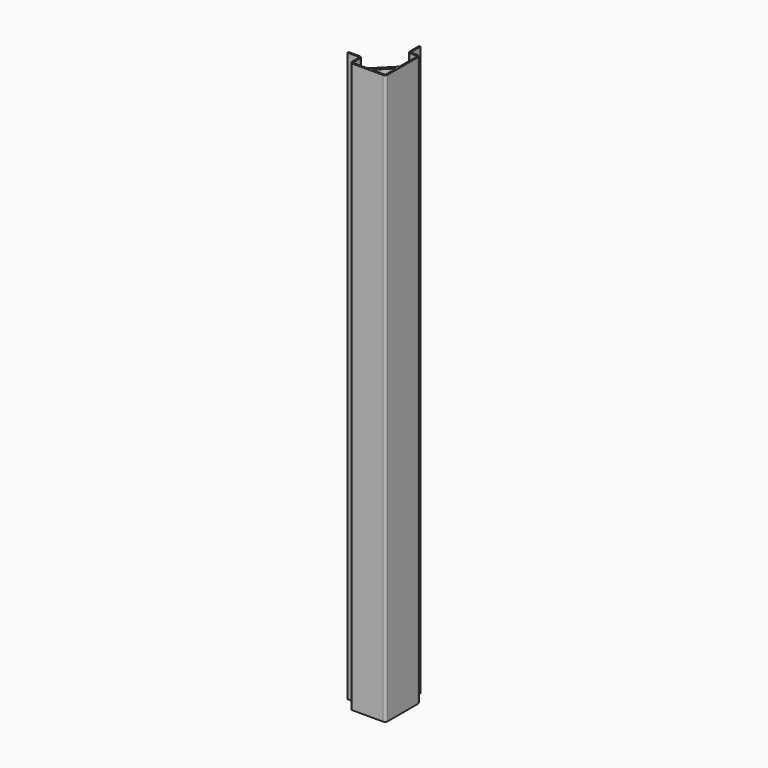
from build123d import *

# Parameters (mm, degrees)
F1_DEPTH = 2337


with BuildPart() as f1:
    # F0 (on Top) → F1 (new body)
    with BuildSketch(Plane.XY):
        Polygon((-6, -84.202423), (-6, -67.231861), (-78.485281, -139.717142), (-61.514719, -139.717142), align=None)
        with BuildLine():
            Line((-40, 83.282858), (-46, 83.282858))
            Line((-46, 83.282858), (-46, 36.282858))
            ThreePointArc((-46, 36.282858), (-43.071068, 29.21179), (-36, 26.282858))
            Line((-36, 26.282858), (-11, 26.282858))
            ThreePointArc((-11, 26.282858), (-7.464466, 24.818392), (-6, 21.282858))
            Line((-6, 21.282858), (-6, -67.231861))
            Line((-6, -67.231861), (-6, -84.202423))
            Line((-6, -84.202423), (-6, -134.717142))
            ThreePointArc((-6, -134.717142), (-7.464466, -138.252676), (-11, -139.717142))
            Line((-11, -139.717142), (-61.514719, -139.717142))
            Line((-61.514719, -139.717142), (-78.485281, -139.717142))
            Line((-78.485281, -139.717142), (-135, -139.717142))
            ThreePointArc((-135, -139.717142), (-138.535534, -138.252676), (-140, -134.717142))
            Line((-140, -134.717142), (-140, -100.717142))
            ThreePointArc((-140, -100.717142), (-143.221825, -92.938967), (-151, -89.717142))
            Line((-151, -89.717142), (-196, -89.717142))
            Line((-196, -89.717142), (-196, -95.717142))
            Line((-196, -95.717142), (-151, -95.717142))
            ThreePointArc((-151, -95.717142), (-147.464466, -97.181608), (-146, -100.717142))
            Line((-146, -100.717142), (-146, -134.717142))
            ThreePointArc((-146, -134.717142), (-142.778175, -142.495316), (-135, -145.717142))
            Line((-135, -145.717142), (-11, -145.717142))
            ThreePointArc((-11, -145.717142), (-3.221825, -142.495316), (0, -134.717142))
            Line((0, -134.717142), (0, 21.282858))
            ThreePointArc((0, 21.282858), (-3.221825, 29.061033), (-11, 32.282858))
            Line((-11, 32.282858), (-35, 32.282858))
            ThreePointArc((-35, 32.282858), (-38.535534, 33.747324), (-40, 37.282858))
            Line((-40, 37.282858), (-40, 83.282858))
        make_face()
    extrude(amount=F1_DEPTH)


solid = f1.part
